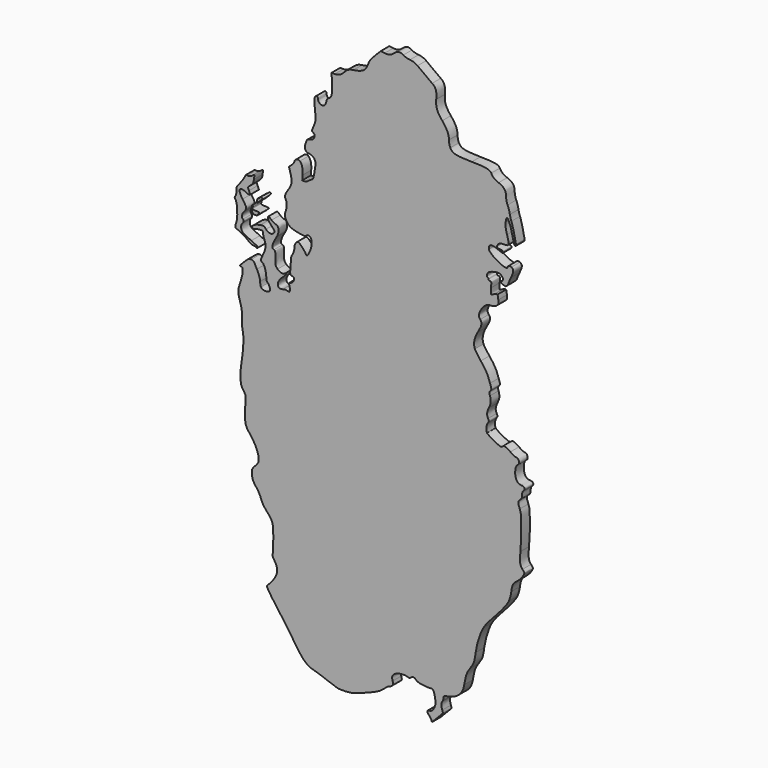
from build123d import *

# Parameters (mm, degrees)
F1_DEPTH = 3


with BuildPart() as f1:
    # F0 (on Front) → F1 (new body)
    with BuildSketch(Plane.XZ):
        with BuildLine():
            add(Edge.make_bspline(
                [(4.178923, 80.062374), (3.055613, 79.086607), (2.616394, 78.931887), (1.400835, 79.083761)],
                knots=[0, 0, 0, 0, 1, 1, 1, 1], degree=3))
            Line((1.400835, 79.083761), (0.294109, 79.222037))
            Line((0.294109, 79.222037), (-1.233349, 77.668768))
            add(Edge.make_bspline(
                [(-1.233349, 77.668768), (-2.349838, 76.533416), (-2.87879, 75.802274), (-3.199314, 74.951333)],
                knots=[0, 0, 0, 0, 1, 1, 1, 1], degree=3))
            add(Edge.make_bspline(
                [(-3.199314, 74.951333), (-3.440493, 74.311041), (-3.83578, 73.57525), (-4.077734, 73.316243)],
                knots=[0, 0, 0, 0, 1, 1, 1, 1], degree=3))
            add(Edge.make_bspline(
                [(-4.077734, 73.316243), (-4.604255, 72.752603), (-5.863523, 72.275147), (-7.311357, 72.090202)],
                knots=[0, 0, 0, 0, 1, 1, 1, 1], degree=3))
            add(Edge.make_bspline(
                [(-7.311357, 72.090202), (-8.496088, 71.938865), (-9.158313, 71.580238), (-9.91618, 70.679565)],
                knots=[0, 0, 0, 0, 1, 1, 1, 1], degree=3))
            add(Edge.make_bspline(
                [(-9.91618, 70.679565), (-10.616252, 69.847577), (-11.458479, 69.447999), (-12.51206, 69.447999)],
                knots=[0, 0, 0, 0, 1, 1, 1, 1], degree=3))
            Line((-12.51206, 69.447999), (-13.394615, 69.447999))
            Line((-13.394615, 69.447999), (-13.266171, 67.066749))
            add(Edge.make_bspline(
                [(-13.266171, 67.066749), (-13.122118, 64.396205), (-13.350406, 63.339517), (-14.146442, 62.992166)],
                knots=[0, 0, 0, 0, 1, 1, 1, 1], degree=3))
            add(Edge.make_bspline(
                [(-14.146442, 62.992166), (-14.413236, 62.875749), (-14.681765, 62.542374), (-14.743172, 62.251332)],
                knots=[0, 0, 0, 0, 1, 1, 1, 1], degree=3))
            add(Edge.make_bspline(
                [(-14.743172, 62.251332), (-14.950095, 61.270622), (-15.220738, 60.807118), (-15.669654, 60.664638)],
                knots=[0, 0, 0, 0, 1, 1, 1, 1], degree=3))
            add(Edge.make_bspline(
                [(-15.669654, 60.664638), (-16.295489, 60.466005), (-17.153858, 61.07321), (-17.153858, 61.714553)],
                knots=[0, 0, 0, 0, 1, 1, 1, 1], degree=3))
            add(Edge.make_bspline(
                [(-17.153858, 61.714553), (-17.153858, 62.403681), (-17.571557, 62.620293), (-17.94518, 62.12492)],
                knots=[0, 0, 0, 0, 1, 1, 1, 1], degree=3))
            add(Edge.make_bspline(
                [(-17.94518, 62.12492), (-18.250241, 61.72045), (-18.236279, 60.857071), (-17.871197, 57.549409)],
                knots=[0, 0, 0, 0, 1, 1, 1, 1], degree=3))
            add(Edge.make_bspline(
                [(-17.871197, 57.549409), (-17.758855, 56.531587), (-17.828431, 56.113361), (-18.310384, 54.909464)],
                knots=[0, 0, 0, 0, 1, 1, 1, 1], degree=3))
            Line((-18.310384, 54.909464), (-18.883061, 53.478943))
            Line((-18.883061, 53.478943), (-18.425651, 53.108555))
            add(Edge.make_bspline(
                [(-18.425651, 53.108555), (-18.088208, 52.83531), (-18.007027, 52.611708), (-18.116122, 52.255999)],
                knots=[0, 0, 0, 0, 1, 1, 1, 1], degree=3))
            add(Edge.make_bspline(
                [(-18.116122, 52.255999), (-18.34787, 51.500383), (-18.60144, 51.287725), (-19.441461, 51.1445)],
                knots=[0, 0, 0, 0, 1, 1, 1, 1], degree=3))
            add(Edge.make_bspline(
                [(-19.441461, 51.1445), (-20.157901, 51.022345), (-20.253289, 50.920703), (-20.586237, 49.924657)],
                knots=[0, 0, 0, 0, 1, 1, 1, 1], degree=3))
            add(Edge.make_bspline(
                [(-20.586237, 49.924657), (-21.06636, 48.488322), (-20.789639, 47.817042), (-19.640408, 47.630238)],
                knots=[0, 0, 0, 0, 1, 1, 1, 1], degree=3))
            add(Edge.make_bspline(
                [(-19.640408, 47.630238), (-18.705737, 47.478312), (-18.091732, 46.98021), (-17.900652, 46.218887)],
                knots=[0, 0, 0, 0, 1, 1, 1, 1], degree=3))
            add(Edge.make_bspline(
                [(-17.900652, 46.218887), (-17.82478, 45.916596), (-17.924118, 44.772799), (-18.121399, 43.677117)],
                knots=[0, 0, 0, 0, 1, 1, 1, 1], degree=3))
            add(Edge.make_bspline(
                [(-18.121399, 43.677117), (-18.441704, 41.898186), (-18.539075, 41.658505), (-19.031157, 41.437732)],
                knots=[0, 0, 0, 0, 1, 1, 1, 1], degree=3))
            add(Edge.make_bspline(
                [(-19.031157, 41.437732), (-19.334241, 41.301754), (-19.750213, 41.023812), (-19.955539, 40.820083)],
                knots=[0, 0, 0, 0, 1, 1, 1, 1], degree=3))
            add(Edge.make_bspline(
                [(-19.955539, 40.820083), (-20.160865, 40.616351), (-20.60364, 40.449664), (-20.939484, 40.449664)],
                knots=[0, 0, 0, 0, 1, 1, 1, 1], degree=3))
            Line((-20.939484, 40.449664), (-21.55011, 40.449664))
            Line((-21.55011, 40.449664), (-21.442129, 41.794877))
            add(Edge.make_bspline(
                [(-21.442129, 41.794877), (-21.323696, 43.270315), (-21.604938, 44.431333), (-22.21438, 44.98287)],
                knots=[0, 0, 0, 0, 1, 1, 1, 1], degree=3))
            add(Edge.make_bspline(
                [(-22.21438, 44.98287), (-22.537458, 45.275254), (-22.695339, 45.291541), (-23.158912, 45.080324)],
                knots=[0, 0, 0, 0, 1, 1, 1, 1], degree=3))
            add(Edge.make_bspline(
                [(-23.158912, 45.080324), (-23.483606, 44.932383), (-23.715525, 44.654329), (-23.715525, 44.412987)],
                knots=[0, 0, 0, 0, 1, 1, 1, 1], degree=3))
            add(Edge.make_bspline(
                [(-23.715525, 44.412987), (-23.715525, 44.185437), (-24.056665, 43.686788), (-24.473614, 43.304878)],
                knots=[0, 0, 0, 0, 1, 1, 1, 1], degree=3))
            Line((-24.473614, 43.304878), (-25.231703, 42.610495))
            Line((-25.231703, 42.610495), (-24.798229, 41.053829))
            add(Edge.make_bspline(
                [(-24.798229, 41.053829), (-24.284279, 39.208165), (-24.396, 38.429303), (-25.379806, 36.999391)],
                knots=[0, 0, 0, 0, 1, 1, 1, 1], degree=3))
            add(Edge.make_bspline(
                [(-25.379806, 36.999391), (-26.375813, 35.551745), (-26.523712, 35.034606), (-26.148975, 34.309947)],
                knots=[0, 0, 0, 0, 1, 1, 1, 1], degree=3))
            add(Edge.make_bspline(
                [(-26.148975, 34.309947), (-25.74113, 33.521261), (-25.747938, 32.637629), (-26.171846, 31.34161)],
                knots=[0, 0, 0, 0, 1, 1, 1, 1], degree=3))
            add(Edge.make_bspline(
                [(-26.171846, 31.34161), (-26.498477, 30.342993), (-26.493844, 30.266708), (-26.050994, 29.351906)],
                knots=[0, 0, 0, 0, 1, 1, 1, 1], degree=3))
            add(Edge.make_bspline(
                [(-26.050994, 29.351906), (-25.452367, 28.115307), (-24.635528, 27.635935), (-22.498004, 27.266794)],
                knots=[0, 0, 0, 0, 1, 1, 1, 1], degree=3))
            add(Edge.make_bspline(
                [(-22.498004, 27.266794), (-21.031815, 27.01359), (-20.714256, 27.011167), (-20.514665, 27.25166)],
                knots=[0, 0, 0, 0, 1, 1, 1, 1], degree=3))
            add(Edge.make_bspline(
                [(-20.514665, 27.25166), (-20.205884, 27.623717), (-19.600146, 27.617666), (-19.2862, 27.239383)],
                knots=[0, 0, 0, 0, 1, 1, 1, 1], degree=3))
            add(Edge.make_bspline(
                [(-19.2862, 27.239383), (-18.74311, 26.585), (-18.770451, 25.446466), (-19.365687, 23.929303)],
                knots=[0, 0, 0, 0, 1, 1, 1, 1], degree=3))
            add(Edge.make_bspline(
                [(-19.365687, 23.929303), (-19.700417, 23.076138), (-20.068468, 22.457997), (-20.241731, 22.457997)],
                knots=[0, 0, 0, 0, 1, 1, 1, 1], degree=3))
            add(Edge.make_bspline(
                [(-20.241731, 22.457997), (-20.406068, 22.457997), (-20.540526, 22.544693), (-20.540526, 22.650656)],
                knots=[0, 0, 0, 0, 1, 1, 1, 1], degree=3))
            add(Edge.make_bspline(
                [(-20.540526, 22.650656), (-20.540526, 23.078792), (-22.265341, 24.997997), (-22.650112, 24.997997)],
                knots=[0, 0, 0, 0, 1, 1, 1, 1], degree=3))
            add(Edge.make_bspline(
                [(-22.650112, 24.997997), (-23.23204, 24.997997), (-23.715526, 24.192613), (-23.715526, 23.223246)],
                knots=[0, 0, 0, 0, 1, 1, 1, 1], degree=3))
            add(Edge.make_bspline(
                [(-23.715526, 23.223246), (-23.715526, 22.718778), (-23.921681, 22.037582), (-24.237381, 21.49888)],
                knots=[0, 0, 0, 0, 1, 1, 1, 1], degree=3))
            add(Edge.make_bspline(
                [(-24.237381, 21.49888), (-24.655244, 20.785849), (-24.754643, 20.338817), (-24.736184, 19.255591)],
                knots=[0, 0, 0, 0, 1, 1, 1, 1], degree=3))
            add(Edge.make_bspline(
                [(-24.736184, 19.255591), (-24.723505, 18.511546), (-24.780839, 17.689457), (-24.863592, 17.428723)],
                knots=[0, 0, 0, 0, 1, 1, 1, 1], degree=3))
            add(Edge.make_bspline(
                [(-24.863592, 17.428723), (-25.077891, 16.75353), (-24.8169, 16.107997), (-24.329619, 16.107997)],
                knots=[0, 0, 0, 0, 1, 1, 1, 1], degree=3))
            add(Edge.make_bspline(
                [(-24.329619, 16.107997), (-23.357627, 16.107997), (-23.826471, 14.554258), (-24.878109, 14.290315)],
                knots=[0, 0, 0, 0, 1, 1, 1, 1], degree=3))
            add(Edge.make_bspline(
                [(-24.878109, 14.290315), (-25.30688, 14.182701), (-25.36322, 14.08989), (-25.192932, 13.771702)],
                knots=[0, 0, 0, 0, 1, 1, 1, 1], degree=3))
            add(Edge.make_bspline(
                [(-25.192932, 13.771702), (-24.96385, 13.343659), (-24.912822, 12.229592), (-25.113123, 12.029289)],
                knots=[0, 0, 0, 0, 1, 1, 1, 1], degree=3))
            add(Edge.make_bspline(
                [(-25.113123, 12.029289), (-25.183302, 11.959111), (-25.459507, 11.984876), (-25.726914, 12.086542)],
                knots=[0, 0, 0, 0, 1, 1, 1, 1], degree=3))
            add(Edge.make_bspline(
                [(-25.726914, 12.086542), (-26.026355, 12.20039), (-26.508708, 12.180668), (-26.982681, 12.035202)],
                knots=[0, 0, 0, 0, 1, 1, 1, 1], degree=3))
            add(Edge.make_bspline(
                [(-26.982681, 12.035202), (-28.784569, 11.482189), (-28.789007, 13.47965), (-26.989235, 14.984076)],
                knots=[0, 0, 0, 0, 1, 1, 1, 1], degree=3))
            add(Edge.make_bspline(
                [(-26.989235, 14.984076), (-26.469278, 15.418705), (-26.04386, 15.916066), (-26.04386, 16.08932)],
                knots=[0, 0, 0, 0, 1, 1, 1, 1], degree=3))
            add(Edge.make_bspline(
                [(-26.04386, 16.08932), (-26.04386, 16.33433), (-26.100304, 16.347887), (-26.29786, 16.15033)],
                knots=[0, 0, 0, 0, 1, 1, 1, 1], degree=3))
            add(Edge.make_bspline(
                [(-26.29786, 16.15033), (-26.759103, 15.689088), (-27.732291, 15.858863), (-28.388475, 16.515051)],
                knots=[0, 0, 0, 0, 1, 1, 1, 1], degree=3))
            add(Edge.make_bspline(
                [(-28.388475, 16.515051), (-28.977176, 17.103748), (-29.007193, 17.222803), (-29.007193, 18.969032)],
                knots=[0, 0, 0, 0, 1, 1, 1, 1], degree=3))
            add(Edge.make_bspline(
                [(-29.007193, 18.969032), (-29.007193, 20.626284), (-29.048254, 20.815035), (-29.430526, 20.915)],
                knots=[0, 0, 0, 0, 1, 1, 1, 1], degree=3))
            add(Edge.make_bspline(
                [(-29.430526, 20.915), (-30.186214, 21.112617), (-29.938997, 22.226505), (-28.688764, 24.257164)],
                knots=[0, 0, 0, 0, 1, 1, 1, 1], degree=3))
            add(Edge.make_bspline(
                [(-28.688764, 24.257164), (-27.872584, 25.582824), (-27.993502, 27.32633), (-28.901621, 27.32633)],
                knots=[0, 0, 0, 0, 1, 1, 1, 1], degree=3))
            add(Edge.make_bspline(
                [(-28.901621, 27.32633), (-29.167895, 27.32633), (-29.691653, 27.61208), (-30.065526, 27.96133)],
                knots=[0, 0, 0, 0, 1, 1, 1, 1], degree=3))
            add(Edge.make_bspline(
                [(-30.065526, 27.96133), (-30.871064, 28.713816), (-31.123859, 28.75698), (-31.123859, 28.14203)],
                knots=[0, 0, 0, 0, 1, 1, 1, 1], degree=3))
            add(Edge.make_bspline(
                [(-31.123859, 28.14203), (-31.123859, 27.892168), (-30.695234, 27.229498), (-30.171359, 26.669433)],
                knots=[0, 0, 0, 0, 1, 1, 1, 1], degree=3))
            add(Edge.make_bspline(
                [(-30.171359, 26.669433), (-29.120316, 25.545782), (-29.06636, 25.392403), (-29.551479, 24.907285)],
                knots=[0, 0, 0, 0, 1, 1, 1, 1], degree=3))
            add(Edge.make_bspline(
                [(-29.551479, 24.907285), (-30.098087, 24.360677), (-30.962073, 24.497723), (-31.60765, 25.233434)],
                knots=[0, 0, 0, 0, 1, 1, 1, 1], degree=3))
            add(Edge.make_bspline(
                [(-31.60765, 25.233434), (-32.150161, 25.851691), (-32.247262, 25.882975), (-33.18658, 25.742114)],
                knots=[0, 0, 0, 0, 1, 1, 1, 1], degree=3))
            add(Edge.make_bspline(
                [(-33.18658, 25.742114), (-34.366851, 25.565121), (-35.255376, 25.145298), (-35.433808, 24.680314)],
                knots=[0, 0, 0, 0, 1, 1, 1, 1], degree=3))
            add(Edge.make_bspline(
                [(-35.433808, 24.680314), (-35.604955, 24.234312), (-35.139596, 24.083586), (-34.427415, 24.354358)],
                knots=[0, 0, 0, 0, 1, 1, 1, 1], degree=3))
            add(Edge.make_bspline(
                [(-34.427415, 24.354358), (-34.108718, 24.475527), (-33.535288, 24.574664), (-33.153125, 24.574664)],
                knots=[0, 0, 0, 0, 1, 1, 1, 1], degree=3))
            add(Edge.make_bspline(
                [(-33.153125, 24.574664), (-32.540723, 24.574664), (-32.456081, 24.505602), (-32.43973, 23.99258)],
                knots=[0, 0, 0, 0, 1, 1, 1, 1], degree=3))
            add(Edge.make_bspline(
                [(-32.43973, 23.99258), (-32.429525, 23.672435), (-32.272156, 23.056368), (-32.090019, 22.623547)],
                knots=[0, 0, 0, 0, 1, 1, 1, 1], degree=3))
            add(Edge.make_bspline(
                [(-32.090019, 22.623547), (-31.582991, 21.418669), (-31.674536, 20.284635), (-32.393859, 18.859664)],
                knots=[0, 0, 0, 0, 1, 1, 1, 1], degree=3))
            add(Edge.make_bspline(
                [(-32.393859, 18.859664), (-33.135433, 17.390615), (-33.173452, 17.046942), (-32.626757, 16.754361)],
                knots=[0, 0, 0, 0, 1, 1, 1, 1], degree=3))
            add(Edge.make_bspline(
                [(-32.626757, 16.754361), (-32.103107, 16.474112), (-31.547193, 14.820079), (-31.547193, 13.542295)],
                knots=[0, 0, 0, 0, 1, 1, 1, 1], degree=3))
            add(Edge.make_bspline(
                [(-31.547193, 13.542295), (-31.547193, 12.766638), (-31.447339, 12.463729), (-31.114885, 12.23087)],
                knots=[0, 0, 0, 0, 1, 1, 1, 1], degree=3))
            add(Edge.make_bspline(
                [(-31.114885, 12.23087), (-30.877116, 12.064328), (-30.628024, 11.591898), (-30.561348, 11.181021)],
                knots=[0, 0, 0, 0, 1, 1, 1, 1], degree=3))
            add(Edge.make_bspline(
                [(-30.561348, 11.181021), (-30.46011, 10.557163), (-30.517621, 10.3925), (-30.910111, 10.182444)],
                knots=[0, 0, 0, 0, 1, 1, 1, 1], degree=3))
            add(Edge.make_bspline(
                [(-30.910111, 10.182444), (-31.531699, 9.849781), (-32.753876, 10.090853), (-33.026287, 10.599856)],
                knots=[0, 0, 0, 0, 1, 1, 1, 1], degree=3))
            add(Edge.make_bspline(
                [(-33.026287, 10.599856), (-33.144118, 10.820029), (-33.247434, 11.411241), (-33.255876, 11.913666)],
                knots=[0, 0, 0, 0, 1, 1, 1, 1], degree=3))
            add(Edge.make_bspline(
                [(-33.255876, 11.913666), (-33.266314, 12.534791), (-33.554232, 13.403), (-34.15546, 14.62633)],
                knots=[0, 0, 0, 0, 1, 1, 1, 1], degree=3))
            add(Edge.make_bspline(
                [(-34.15546, 14.62633), (-34.968267, 16.280164), (-35.09481, 16.43082), (-35.72203, 16.491407)],
                knots=[0, 0, 0, 0, 1, 1, 1, 1], degree=3))
            add(Edge.make_bspline(
                [(-35.72203, 16.491407), (-36.314228, 16.548613), (-36.579867, 16.382383), (-37.732863, 15.233078)],
                knots=[0, 0, 0, 0, 1, 1, 1, 1], degree=3))
            add(Edge.make_bspline(
                [(-37.732863, 15.233078), (-38.929643, 14.040127), (-39.01414, 13.90097), (-38.585109, 13.829527)],
                knots=[0, 0, 0, 0, 1, 1, 1, 1], degree=3))
            add(Edge.make_bspline(
                [(-38.585109, 13.829527), (-38.169603, 13.760336), (-38.109392, 13.623864), (-38.113035, 12.759526)],
                knots=[0, 0, 0, 0, 1, 1, 1, 1], degree=3))
            add(Edge.make_bspline(
                [(-38.113035, 12.759526), (-38.115337, 12.211687), (-38.399198, 10.969125), (-38.748035, 9.979834)],
                knots=[0, 0, 0, 0, 1, 1, 1, 1], degree=3))
            add(Edge.make_bspline(
                [(-38.748035, 9.979834), (-39.514433, 7.806356), (-39.5222, 7.365838), (-38.832185, 5.207164)],
                knots=[0, 0, 0, 0, 1, 1, 1, 1], degree=3))
            add(Edge.make_bspline(
                [(-38.832185, 5.207164), (-38.384739, 3.807351), (-38.296733, 3.146933), (-38.324472, 1.397164)],
                knots=[0, 0, 0, 0, 1, 1, 1, 1], degree=3))
            add(Edge.make_bspline(
                [(-38.324472, 1.397164), (-38.342928, 0.232997), (-38.256613, -1.100503), (-38.13266, -1.56617)],
                knots=[0, 0, 0, 0, 1, 1, 1, 1], degree=3))
            add(Edge.make_bspline(
                [(-38.13266, -1.56617), (-37.772318, -2.919908), (-37.861474, -6.065309), (-38.340057, -8.883119)],
                knots=[0, 0, 0, 0, 1, 1, 1, 1], degree=3))
            add(Edge.make_bspline(
                [(-38.340057, -8.883119), (-38.628928, -10.583937), (-38.757729, -12.122269), (-38.710473, -13.307161)],
                knots=[0, 0, 0, 0, 1, 1, 1, 1], degree=3))
            add(Edge.make_bspline(
                [(-38.710473, -13.307161), (-38.646039, -14.922768), (-38.563379, -15.240167), (-37.963183, -16.176604)],
                knots=[0, 0, 0, 0, 1, 1, 1, 1], degree=3))
            Line((-37.963183, -16.176604), (-37.28834, -17.229503))
            Line((-37.28834, -17.229503), (-37.411595, -20.414756))
            add(Edge.make_bspline(
                [(-37.411595, -20.414756), (-37.552666, -24.060396), (-37.431296, -24.647279), (-36.219152, -26.180757)],
                knots=[0, 0, 0, 0, 1, 1, 1, 1], degree=3))
            add(Edge.make_bspline(
                [(-36.219152, -26.180757), (-34.4985, -28.357545), (-33.663859, -30.192102), (-33.663859, -31.797342)],
                knots=[0, 0, 0, 0, 1, 1, 1, 1], degree=3))
            add(Edge.make_bspline(
                [(-33.663859, -31.797342), (-33.663859, -32.50084), (-33.818573, -32.802669), (-34.616359, -33.655567)],
                knots=[0, 0, 0, 0, 1, 1, 1, 1], degree=3))
            add(Edge.make_bspline(
                [(-34.616359, -33.655567), (-35.458062, -34.555414), (-35.568859, -34.786512), (-35.568859, -35.642236)],
                knots=[0, 0, 0, 0, 1, 1, 1, 1], degree=3))
            add(Edge.make_bspline(
                [(-35.568859, -35.642236), (-35.568859, -36.850416), (-35.15705, -37.856462), (-34.209241, -38.963764)],
                knots=[0, 0, 0, 0, 1, 1, 1, 1], degree=3))
            add(Edge.make_bspline(
                [(-34.209241, -38.963764), (-33.804792, -39.436268), (-33.279644, -40.398031), (-33.042245, -41.101008)],
                knots=[0, 0, 0, 0, 1, 1, 1, 1], degree=3))
            add(Edge.make_bspline(
                [(-33.042245, -41.101008), (-32.760753, -41.934551), (-32.244529, -42.800045), (-31.558197, -43.589139)],
                knots=[0, 0, 0, 0, 1, 1, 1, 1], degree=3))
            add(Edge.make_bspline(
                [(-31.558197, -43.589139), (-29.639529, -45.795076), (-29.610702, -45.882687), (-29.59545, -49.554376)],
                knots=[0, 0, 0, 0, 1, 1, 1, 1], degree=3))
            add(Edge.make_bspline(
                [(-29.59545, -49.554376), (-29.588058, -51.333697), (-29.653825, -53.097949), (-29.741595, -53.474935)],
                knots=[0, 0, 0, 0, 1, 1, 1, 1], degree=3))
            add(Edge.make_bspline(
                [(-29.741595, -53.474935), (-29.87443, -54.045483), (-29.784866, -54.341626), (-29.207241, -55.241778)],
                knots=[0, 0, 0, 0, 1, 1, 1, 1], degree=3))
            add(Edge.make_bspline(
                [(-29.207241, -55.241778), (-28.020134, -57.091723), (-28.344195, -58.626291), (-30.406303, -60.919852)],
                knots=[0, 0, 0, 0, 1, 1, 1, 1], degree=3))
            Line((-30.406303, -60.919852), (-31.416187, -62.043085))
            Line((-31.416187, -62.043085), (-30.899606, -63.023457))
            add(Edge.make_bspline(
                [(-30.899606, -63.023457), (-30.615487, -63.562662), (-29.538474, -65.086005), (-28.506245, -66.408665)],
                knots=[0, 0, 0, 0, 1, 1, 1, 1], degree=3))
            add(Edge.make_bspline(
                [(-28.506245, -66.408665), (-27.474015, -67.731326), (-25.865227, -70.018228), (-24.93116, -71.490671)],
                knots=[0, 0, 0, 0, 1, 1, 1, 1], degree=3))
            add(Edge.make_bspline(
                [(-24.93116, -71.490671), (-21.661536, -76.644834), (-20.527751, -77.823431), (-18.303718, -78.380059)],
                knots=[0, 0, 0, 0, 1, 1, 1, 1], degree=3))
            add(Edge.make_bspline(
                [(-18.303718, -78.380059), (-17.496671, -78.582047), (-15.88386, -79.130793), (-14.719693, -79.599497)],
                knots=[0, 0, 0, 0, 1, 1, 1, 1], degree=3))
            add(Edge.make_bspline(
                [(-14.719693, -79.599497), (-13.55554, -80.068193), (-12.22204, -80.533068), (-11.756373, -80.632544)],
                knots=[0, 0, 0, 0, 1, 1, 1, 1], degree=3))
            add(Edge.make_bspline(
                [(-11.756373, -80.632544), (-10.672449, -80.864094), (-8.143835, -80.694697), (-6.843791, -80.303442)],
                knots=[0, 0, 0, 0, 1, 1, 1, 1], degree=3))
            add(Edge.make_bspline(
                [(-6.843791, -80.303442), (-6.288793, -80.136413), (-4.559209, -79.497193), (-3.000271, -78.882957)],
                knots=[0, 0, 0, 0, 1, 1, 1, 1], degree=3))
            add(Edge.make_bspline(
                [(-3.000271, -78.882957), (-0.661402, -77.961424), (0.052825, -77.571878), (1.084814, -76.654917)],
                knots=[0, 0, 0, 0, 1, 1, 1, 1], degree=3))
            add(Edge.make_bspline(
                [(1.084814, -76.654917), (1.772669, -76.04373), (2.464184, -75.543667), (2.621511, -75.543667)],
                knots=[0, 0, 0, 0, 1, 1, 1, 1], degree=3))
            add(Edge.make_bspline(
                [(2.621511, -75.543667), (2.778838, -75.543667), (3.118367, -75.372966), (3.376021, -75.164331)],
                knots=[0, 0, 0, 0, 1, 1, 1, 1], degree=3))
            add(Edge.make_bspline(
                [(3.376021, -75.164331), (3.809077, -74.813663), (3.825021, -74.72004), (3.586983, -73.925544)],
                knots=[0, 0, 0, 0, 1, 1, 1, 1], degree=3))
            add(Edge.make_bspline(
                [(3.586983, -73.925544), (3.392248, -73.275566), (3.38849, -72.955844), (3.571585, -72.613737)],
                knots=[0, 0, 0, 0, 1, 1, 1, 1], degree=3))
            add(Edge.make_bspline(
                [(3.571585, -72.613737), (4.06675, -71.688511), (6.117668, -71.111846), (7.528069, -71.501276)],
                knots=[0, 0, 0, 0, 1, 1, 1, 1], degree=3))
            add(Edge.make_bspline(
                [(7.528069, -71.501276), (8.169223, -71.678308), (8.39991, -71.660108), (8.675434, -71.410762)],
                knots=[0, 0, 0, 0, 1, 1, 1, 1], degree=3))
            add(Edge.make_bspline(
                [(8.675434, -71.410762), (9.154957, -70.9768), (9.639023, -71.021083), (10.125661, -71.543424)],
                knots=[0, 0, 0, 0, 1, 1, 1, 1], degree=3))
            add(Edge.make_bspline(
                [(10.125661, -71.543424), (10.438578, -71.879302), (10.945827, -72.033908), (12.197655, -72.17495)],
                knots=[0, 0, 0, 0, 1, 1, 1, 1], degree=3))
            add(Edge.make_bspline(
                [(12.197655, -72.17495), (13.109356, -72.277672), (13.998171, -72.317827), (14.172796, -72.264191)],
                knots=[0, 0, 0, 0, 1, 1, 1, 1], degree=3))
            add(Edge.make_bspline(
                [(14.172796, -72.264191), (14.749675, -72.086992), (15.039235, -72.497196), (15.334947, -73.910553)],
                knots=[0, 0, 0, 0, 1, 1, 1, 1], degree=3))
            add(Edge.make_bspline(
                [(15.334947, -73.910553), (15.539557, -74.88849), (15.566849, -75.525731), (15.425966, -76.035961)],
                knots=[0, 0, 0, 0, 1, 1, 1, 1], degree=3))
            add(Edge.make_bspline(
                [(15.425966, -76.035961), (15.142531, -77.062471), (14.448741, -77.872), (13.852425, -77.872)],
                knots=[0, 0, 0, 0, 1, 1, 1, 1], degree=3))
            add(Edge.make_bspline(
                [(13.852425, -77.872), (13.064224, -77.872), (13.011902, -78.274275), (13.705513, -79.001541)],
                knots=[0, 0, 0, 0, 1, 1, 1, 1], degree=3))
            add(Edge.make_bspline(
                [(13.705513, -79.001541), (14.056763, -79.369833), (14.381454, -79.861667), (14.427047, -80.0945)],
                knots=[0, 0, 0, 0, 1, 1, 1, 1], degree=3))
            add(Edge.make_bspline(
                [(14.427047, -80.0945), (14.503298, -80.483888), (14.551589, -80.468542), (15.029287, -79.903133)],
                knots=[0, 0, 0, 0, 1, 1, 1, 1], degree=3))
            add(Edge.make_bspline(
                [(15.029287, -79.903133), (15.314926, -79.565045), (16.022662, -78.833668), (16.602039, -78.277845)],
                knots=[0, 0, 0, 0, 1, 1, 1, 1], degree=3))
            add(Edge.make_bspline(
                [(16.602039, -78.277845), (17.638565, -77.283456), (17.651286, -77.255751), (17.395789, -76.549184)],
                knots=[0, 0, 0, 0, 1, 1, 1, 1], degree=3))
            add(Edge.make_bspline(
                [(17.395789, -76.549184), (17.050963, -75.595584), (17.068004, -74.867982), (17.446898, -74.367038)],
                knots=[0, 0, 0, 0, 1, 1, 1, 1], degree=3))
            add(Edge.make_bspline(
                [(17.446898, -74.367038), (17.617819, -74.14106), (17.760694, -73.705204), (17.764398, -73.398473)],
                knots=[0, 0, 0, 0, 1, 1, 1, 1], degree=3))
            add(Edge.make_bspline(
                [(17.764398, -73.398473), (17.77059, -72.885798), (17.860834, -72.829473), (18.882379, -72.700743)],
                knots=[0, 0, 0, 0, 1, 1, 1, 1], degree=3))
            add(Edge.make_bspline(
                [(18.882379, -72.700743), (19.493567, -72.623723), (20.466315, -72.303185), (21.044044, -71.988437)],
                knots=[0, 0, 0, 0, 1, 1, 1, 1], degree=3))
            add(Edge.make_bspline(
                [(21.044044, -71.988437), (22.446814, -71.224204), (23.221988, -70.078084), (23.507045, -68.346818)],
                knots=[0, 0, 0, 0, 1, 1, 1, 1], degree=3))
            add(Edge.make_bspline(
                [(23.507045, -68.346818), (23.909598, -65.90193), (24.157676, -65.202769), (25.094862, -63.871846)],
                knots=[0, 0, 0, 0, 1, 1, 1, 1], degree=3))
            add(Edge.make_bspline(
                [(25.094862, -63.871846), (26.179101, -62.332092), (26.352022, -61.847249), (26.668612, -59.459315)],
                knots=[0, 0, 0, 0, 1, 1, 1, 1], degree=3))
            add(Edge.make_bspline(
                [(26.668612, -59.459315), (26.976994, -57.133265), (27.930508, -54.177449), (28.889051, -52.576109)],
                knots=[0, 0, 0, 0, 1, 1, 1, 1], degree=3))
            add(Edge.make_bspline(
                [(28.889051, -52.576109), (29.306598, -51.878558), (30.25298, -50.688709), (30.992123, -49.932)],
                knots=[0, 0, 0, 0, 1, 1, 1, 1], degree=3))
            add(Edge.make_bspline(
                [(30.992123, -49.932), (33.256673, -47.613626), (35.362103, -45.012933), (35.894992, -43.875815)],
                knots=[0, 0, 0, 0, 1, 1, 1, 1], degree=3))
            add(Edge.make_bspline(
                [(35.894992, -43.875815), (36.173882, -43.280706), (36.487916, -42.110049), (36.592849, -41.274355)],
                knots=[0, 0, 0, 0, 1, 1, 1, 1], degree=3))
            add(Edge.make_bspline(
                [(36.592849, -41.274355), (36.814472, -39.509348), (37.062292, -39.06265), (38.371715, -38.067954)],
                knots=[0, 0, 0, 0, 1, 1, 1, 1], degree=3))
            add(Edge.make_bspline(
                [(38.371715, -38.067954), (39.260736, -37.39261), (40.207796, -36.105383), (40.207796, -35.572383)],
                knots=[0, 0, 0, 0, 1, 1, 1, 1], degree=3))
            add(Edge.make_bspline(
                [(40.207796, -35.572383), (40.207796, -35.448008), (39.975981, -35.114429), (39.692655, -34.831102)],
                knots=[0, 0, 0, 0, 1, 1, 1, 1], degree=3))
            add(Edge.make_bspline(
                [(39.692655, -34.831102), (38.984812, -34.12326), (38.856347, -33.177081), (39.128468, -30.675699)],
                knots=[0, 0, 0, 0, 1, 1, 1, 1], degree=3))
            add(Edge.make_bspline(
                [(39.128468, -30.675699), (39.256439, -29.499449), (39.361135, -26.925075), (39.361135, -24.954865)],
                knots=[0, 0, 0, 0, 1, 1, 1, 1], degree=3))
            add(Edge.make_bspline(
                [(39.361135, -24.954865), (39.361135, -21.871782), (39.302151, -21.223029), (38.937801, -20.298664)],
                knots=[0, 0, 0, 0, 1, 1, 1, 1], degree=3))
            add(Edge.make_bspline(
                [(38.937801, -20.298664), (38.385936, -18.898569), (38.403824, -18.511422), (39.043635, -18.008148)],
                knots=[0, 0, 0, 0, 1, 1, 1, 1], degree=3))
            add(Edge.make_bspline(
                [(39.043635, -18.008148), (39.448561, -17.689635), (39.572801, -17.39555), (39.572801, -16.755592)],
                knots=[0, 0, 0, 0, 1, 1, 1, 1], degree=3))
            add(Edge.make_bspline(
                [(39.572801, -16.755592), (39.572801, -16.204079), (39.709146, -15.795887), (39.973174, -15.556945)],
                knots=[0, 0, 0, 0, 1, 1, 1, 1], degree=3))
            add(Edge.make_bspline(
                [(39.973174, -15.556945), (40.587931, -15.000597), (40.31628, -14.371998), (39.461097, -14.371998)],
                knots=[0, 0, 0, 0, 1, 1, 1, 1], degree=3))
            add(Edge.make_bspline(
                [(39.461097, -14.371998), (38.375451, -14.371998), (37.667801, -13.399559), (37.667801, -11.907676)],
                knots=[0, 0, 0, 0, 1, 1, 1, 1], degree=3))
            add(Edge.make_bspline(
                [(37.667801, -11.907676), (37.667801, -10.719536), (37.930128, -9.952755), (38.439533, -9.651897)],
                knots=[0, 0, 0, 0, 1, 1, 1, 1], degree=3))
            add(Edge.make_bspline(
                [(38.439533, -9.651897), (39.043658, -9.295096), (38.698086, -8.021998), (37.997112, -8.021998)],
                knots=[0, 0, 0, 0, 1, 1, 1, 1], degree=3))
            add(Edge.make_bspline(
                [(37.997112, -8.021998), (37.737477, -8.021998), (36.992989, -7.640998), (36.342694, -7.175331)],
                knots=[0, 0, 0, 0, 1, 1, 1, 1], degree=3))
            add(Edge.make_bspline(
                [(36.342694, -7.175331), (35.179366, -6.34229), (34.432865, -6.123581), (34.175301, -6.540331)],
                knots=[0, 0, 0, 0, 1, 1, 1, 1], degree=3))
            add(Edge.make_bspline(
                [(34.175301, -6.540331), (34.10335, -6.656748), (33.866919, -6.751998), (33.649897, -6.751998)],
                knots=[0, 0, 0, 0, 1, 1, 1, 1], degree=3))
            add(Edge.make_bspline(
                [(33.649897, -6.751998), (33.073888, -6.751998), (30.076879, -5.085165), (29.832772, -4.629045)],
                knots=[0, 0, 0, 0, 1, 1, 1, 1], degree=3))
            add(Edge.make_bspline(
                [(29.832772, -4.629045), (29.499582, -4.006475), (29.593628, -2.887179), (30.03544, -2.216968)],
                knots=[0, 0, 0, 0, 1, 1, 1, 1], degree=3))
            add(Edge.make_bspline(
                [(30.03544, -2.216968), (30.403182, -1.659118), (30.41353, -1.539576), (30.139879, -1.010396)],
                knots=[0, 0, 0, 0, 1, 1, 1, 1], degree=3))
            add(Edge.make_bspline(
                [(30.139879, -1.010396), (29.713614, -0.186092), (29.761551, 0.381402), (30.36737, 1.682771)],
                knots=[0, 0, 0, 0, 1, 1, 1, 1], degree=3))
            add(Edge.make_bspline(
                [(30.36737, 1.682771), (30.955317, 2.945749), (31.007916, 3.509401), (30.649472, 4.705781)],
                knots=[0, 0, 0, 0, 1, 1, 1, 1], degree=3))
            add(Edge.make_bspline(
                [(30.649472, 4.705781), (30.438535, 5.409824), (30.456228, 5.580697), (30.776742, 5.93486)],
                knots=[0, 0, 0, 0, 1, 1, 1, 1], degree=3))
            add(Edge.make_bspline(
                [(30.776742, 5.93486), (31.132754, 6.328251), (31.128315, 6.409147), (30.675075, 7.787523)],
                knots=[0, 0, 0, 0, 1, 1, 1, 1], degree=3))
            add(Edge.make_bspline(
                [(30.675075, 7.787523), (30.012003, 9.804032), (29.642338, 10.468528), (28.094107, 12.426966)],
                knots=[0, 0, 0, 0, 1, 1, 1, 1], degree=3))
            add(Edge.make_bspline(
                [(28.094107, 12.426966), (27.347792, 13.371023), (26.613057, 14.443064), (26.461364, 14.809284)],
                knots=[0, 0, 0, 0, 1, 1, 1, 1], degree=3))
            add(Edge.make_bspline(
                [(26.461364, 14.809284), (25.990498, 15.946053), (26.275309, 17.503621), (27.256466, 19.157542)],
                knots=[0, 0, 0, 0, 1, 1, 1, 1], degree=3))
            add(Edge.make_bspline(
                [(27.256466, 19.157542), (28.40503, 21.093665), (28.527413, 21.696762), (27.934482, 22.498745)],
                knots=[0, 0, 0, 0, 1, 1, 1, 1], degree=3))
            add(Edge.make_bspline(
                [(27.934482, 22.498745), (27.394864, 23.228614), (27.464857, 23.770029), (28.27981, 25.170019)],
                knots=[0, 0, 0, 0, 1, 1, 1, 1], degree=3))
            add(Edge.make_bspline(
                [(28.27981, 25.170019), (28.940126, 26.304356), (29.88586, 26.901177), (31.024672, 26.902211)],
                knots=[0, 0, 0, 0, 1, 1, 1, 1], degree=3))
            add(Edge.make_bspline(
                [(31.024672, 26.902211), (31.595735, 26.90274), (32.095843, 27.060429), (32.476832, 27.360115)],
                knots=[0, 0, 0, 0, 1, 1, 1, 1], degree=3))
            add(Edge.make_bspline(
                [(32.476832, 27.360115), (33.008481, 27.778307), (33.049975, 27.913438), (32.964235, 28.947369)],
                knots=[0, 0, 0, 0, 1, 1, 1, 1], degree=3))
            add(Edge.make_bspline(
                [(32.964235, 28.947369), (32.912686, 29.568949), (32.821529, 30.126498), (32.761656, 30.18637)],
                knots=[0, 0, 0, 0, 1, 1, 1, 1], degree=3))
            add(Edge.make_bspline(
                [(32.761656, 30.18637), (32.701786, 30.246243), (32.307859, 30.151101), (31.886266, 29.97495)],
                knots=[0, 0, 0, 0, 1, 1, 1, 1], degree=3))
            add(Edge.make_bspline(
                [(31.886266, 29.97495), (31.464674, 29.798795), (31.05507, 29.654669), (30.976042, 29.654669)],
                knots=[0, 0, 0, 0, 1, 1, 1, 1], degree=3))
            add(Edge.make_bspline(
                [(30.976042, 29.654669), (30.897011, 29.654669), (30.892738, 30.369044), (30.966543, 31.242169)],
                knots=[0, 0, 0, 0, 1, 1, 1, 1], degree=3))
            add(Edge.make_bspline(
                [(30.966543, 31.242169), (31.092326, 32.73018), (31.074374, 32.829669), (30.680103, 32.829669)],
                knots=[0, 0, 0, 0, 1, 1, 1, 1], degree=3))
            add(Edge.make_bspline(
                [(30.680103, 32.829669), (30.447322, 32.829669), (30.259473, 32.971462), (30.259473, 33.147169)],
                knots=[0, 0, 0, 0, 1, 1, 1, 1], degree=3))
            add(Edge.make_bspline(
                [(30.259473, 33.147169), (30.259473, 33.321794), (30.164223, 33.464669), (30.047807, 33.464669)],
                knots=[0, 0, 0, 0, 1, 1, 1, 1], degree=3))
            add(Edge.make_bspline(
                [(30.047807, 33.464669), (29.685401, 33.464669), (29.815955, 34.439124), (30.228361, 34.812348)],
                knots=[0, 0, 0, 0, 1, 1, 1, 1], degree=3))
            add(Edge.make_bspline(
                [(30.228361, 34.812348), (30.444084, 35.007571), (31.164483, 35.281385), (31.829246, 35.420824)],
                knots=[0, 0, 0, 0, 1, 1, 1, 1], degree=3))
            add(Edge.make_bspline(
                [(31.829246, 35.420824), (32.846193, 35.634128), (33.128115, 35.623939), (33.606606, 35.35658)],
                knots=[0, 0, 0, 0, 1, 1, 1, 1], degree=3))
            add(Edge.make_bspline(
                [(33.606606, 35.35658), (34.36759, 34.931379), (34.48157, 34.04589), (33.815375, 33.734663)],
                knots=[0, 0, 0, 0, 1, 1, 1, 1], degree=3))
            add(Edge.make_bspline(
                [(33.815375, 33.734663), (33.341345, 33.513209), (33.349949, 33.498112), (34.145044, 33.156165)],
                knots=[0, 0, 0, 0, 1, 1, 1, 1], degree=3))
            add(Edge.make_bspline(
                [(34.145044, 33.156165), (34.909488, 32.827404), (34.986948, 32.828137), (35.362127, 33.167648)],
                knots=[0, 0, 0, 0, 1, 1, 1, 1], degree=3))
            add(Edge.make_bspline(
                [(35.362127, 33.167648), (35.582501, 33.367085), (35.762807, 33.637249), (35.762807, 33.768008)],
                knots=[0, 0, 0, 0, 1, 1, 1, 1], degree=3))
            add(Edge.make_bspline(
                [(35.762807, 33.768008), (35.762807, 33.898771), (36.09856, 34.706359), (36.508926, 35.562651)],
                knots=[0, 0, 0, 0, 1, 1, 1, 1], degree=3))
            add(Edge.make_bspline(
                [(36.508926, 35.562651), (37.285301, 37.182673), (37.307727, 37.747622), (36.610473, 38.120783)],
                knots=[0, 0, 0, 0, 1, 1, 1, 1], degree=3))
            add(Edge.make_bspline(
                [(36.610473, 38.120783), (36.135226, 38.375135), (35.55114, 38.187884), (35.55114, 37.781179)],
                knots=[0, 0, 0, 0, 1, 1, 1, 1], degree=3))
            add(Edge.make_bspline(
                [(35.55114, 37.781179), (35.55114, 36.66146), (30.788595, 39.116), (30.363706, 40.454699)],
                knots=[0, 0, 0, 0, 1, 1, 1, 1], degree=3))
            add(Edge.make_bspline(
                [(30.363706, 40.454699), (30.29348, 40.675967), (30.339893, 41.051101), (30.466862, 41.288332)],
                knots=[0, 0, 0, 0, 1, 1, 1, 1], degree=3))
            add(Edge.make_bspline(
                [(30.466862, 41.288332), (30.772413, 41.859263), (31.546256, 41.832453), (33.01114, 41.200186)],
                knots=[0, 0, 0, 0, 1, 1, 1, 1], degree=3))
            add(Edge.make_bspline(
                [(33.01114, 41.200186), (34.249123, 40.665852), (34.40687, 40.66337), (34.208099, 41.181374)],
                knots=[0, 0, 0, 0, 1, 1, 1, 1], degree=3))
            add(Edge.make_bspline(
                [(34.208099, 41.181374), (34.127872, 41.39044), (33.813732, 41.508), (33.335281, 41.508)],
                knots=[0, 0, 0, 0, 1, 1, 1, 1], degree=3))
            add(Edge.make_bspline(
                [(33.335281, 41.508), (32.482346, 41.508), (32.372404, 41.83009), (32.972415, 42.571072)],
                knots=[0, 0, 0, 0, 1, 1, 1, 1], degree=3))
            add(Edge.make_bspline(
                [(32.972415, 42.571072), (33.290365, 42.963727), (33.562018, 43.044202), (34.53982, 43.035415)],
                knots=[0, 0, 0, 0, 1, 1, 1, 1], degree=3))
            add(Edge.make_bspline(
                [(34.53982, 43.035415), (36.047728, 43.021869), (36.122891, 43.249937), (35.406582, 45.665493)],
                knots=[0, 0, 0, 0, 1, 1, 1, 1], degree=3))
            add(Edge.make_bspline(
                [(35.406582, 45.665493), (34.98272, 47.094854), (34.901432, 47.707341), (35.014978, 48.616137)],
                knots=[0, 0, 0, 0, 1, 1, 1, 1], degree=3))
            add(Edge.make_bspline(
                [(35.014978, 48.616137), (35.109164, 49.369974), (35.256643, 49.763), (35.44533, 49.763)],
                knots=[0, 0, 0, 0, 1, 1, 1, 1], degree=3))
            add(Edge.make_bspline(
                [(35.44533, 49.763), (35.787945, 49.763), (36.462995, 48.036144), (36.810591, 46.2705)],
                knots=[0, 0, 0, 0, 1, 1, 1, 1], degree=3))
            add(Edge.make_bspline(
                [(36.810591, 46.2705), (37.153303, 44.529663), (37.452124, 43.624666), (37.684221, 43.624666)],
                knots=[0, 0, 0, 0, 1, 1, 1, 1], degree=3))
            add(Edge.make_bspline(
                [(37.684221, 43.624666), (37.79161, 43.624666), (37.879352, 43.838979), (37.879201, 44.100916)],
                knots=[0, 0, 0, 0, 1, 1, 1, 1], degree=3))
            add(Edge.make_bspline(
                [(37.879201, 44.100916), (37.878672, 44.736271), (36.880232, 48.833746), (36.596591, 49.363735)],
                knots=[0, 0, 0, 0, 1, 1, 1, 1], degree=3))
            add(Edge.make_bspline(
                [(36.596591, 49.363735), (36.4733, 49.594111), (36.28933, 50.29314), (36.187772, 50.917133)],
                knots=[0, 0, 0, 0, 1, 1, 1, 1], degree=3))
            add(Edge.make_bspline(
                [(36.187772, 50.917133), (36.086215, 51.541127), (35.806177, 52.483993), (35.565464, 53.01239)],
                knots=[0, 0, 0, 0, 1, 1, 1, 1], degree=3))
            add(Edge.make_bspline(
                [(35.565464, 53.01239), (35.3103, 53.572508), (35.127807, 54.41248), (35.127807, 55.026812)],
                knots=[0, 0, 0, 0, 1, 1, 1, 1], degree=3))
            add(Edge.make_bspline(
                [(35.127807, 55.026812), (35.127807, 56.367257), (34.523472, 57.136117), (33.054722, 57.664272)],
                knots=[0, 0, 0, 0, 1, 1, 1, 1], degree=3))
            add(Edge.make_bspline(
                [(33.054722, 57.664272), (31.974912, 58.052566), (31.435205, 58.495206), (31.015764, 59.336528)],
                knots=[0, 0, 0, 0, 1, 1, 1, 1], degree=3))
            add(Edge.make_bspline(
                [(31.015764, 59.336528), (30.643839, 60.08253), (29.407822, 60.311514), (25.602807, 60.33933)],
                knots=[0, 0, 0, 0, 1, 1, 1, 1], degree=3))
            add(Edge.make_bspline(
                [(25.602807, 60.33933), (21.357273, 60.370367), (20.208892, 60.656282), (19.623551, 61.827999)],
                knots=[0, 0, 0, 0, 1, 1, 1, 1], degree=3))
            add(Edge.make_bspline(
                [(19.623551, 61.827999), (19.420005, 62.235457), (19.251227, 63.045082), (19.248486, 63.627166)],
                knots=[0, 0, 0, 0, 1, 1, 1, 1], degree=3))
            add(Edge.make_bspline(
                [(19.248486, 63.627166), (19.242189, 64.967461), (18.711382, 66.136426), (17.385819, 67.729252)],
                knots=[0, 0, 0, 0, 1, 1, 1, 1], degree=3))
            add(Edge.make_bspline(
                [(17.385819, 67.729252), (15.950926, 69.45345), (15.560861, 70.545417), (15.716537, 72.402317)],
                knots=[0, 0, 0, 0, 1, 1, 1, 1], degree=3))
            add(Edge.make_bspline(
                [(15.716537, 72.402317), (15.885619, 74.419129), (15.614458, 75.263693), (14.5717, 75.96807)],
                knots=[0, 0, 0, 0, 1, 1, 1, 1], degree=3))
            add(Edge.make_bspline(
                [(14.5717, 75.96807), (13.808827, 76.483384), (12.938999, 77.125885), (10.517905, 78.96241)],
                knots=[0, 0, 0, 0, 1, 1, 1, 1], degree=3))
            add(Edge.make_bspline(
                [(10.517905, 78.96241), (9.9322, 79.406697), (9.370254, 79.607542), (8.401239, 79.718928)],
                knots=[0, 0, 0, 0, 1, 1, 1, 1], degree=3))
            add(Edge.make_bspline(
                [(8.401239, 79.718928), (7.671298, 79.802833), (6.830995, 80.048309), (6.520133, 80.268453)],
                knots=[0, 0, 0, 0, 1, 1, 1, 1], degree=3))
            add(Edge.make_bspline(
                [(6.520133, 80.268453), (5.728693, 80.828928), (4.986142, 80.763567), (4.178923, 80.062374)],
                knots=[0, 0, 0, 0, 1, 1, 1, 1], degree=3))
        make_face()
    extrude(amount=F1_DEPTH)


with BuildPart() as f1b:
    # F0 (on Front) → F1, piece 2 (new body)
    with BuildSketch(Plane.XZ):
        with BuildLine():
            add(Edge.make_bspline(
                [(-35.992207, 32.293322), (-35.992207, 32.34758), (-36.152206, 32.727497), (-36.347761, 33.13758)],
                knots=[0, 0, 0, 0, 1, 1, 1, 1], degree=3))
            Line((-36.347761, 33.13758), (-36.703315, 33.883184))
            Line((-36.703315, 33.883184), (-35.91537, 34.573509))
            add(Edge.make_bspline(
                [(-35.91537, 34.573509), (-35.269942, 35.138976), (-35.096497, 35.464829), (-34.956428, 36.375086)],
                knots=[0, 0, 0, 0, 1, 1, 1, 1], degree=3))
            add(Edge.make_bspline(
                [(-34.956428, 36.375086), (-34.862379, 36.986273), (-34.822686, 37.486336), (-34.868222, 37.486336)],
                knots=[0, 0, 0, 0, 1, 1, 1, 1], degree=3))
            add(Edge.make_bspline(
                [(-34.868222, 37.486336), (-34.913758, 37.486336), (-35.225591, 37.283334), (-35.561184, 37.035221)],
                knots=[0, 0, 0, 0, 1, 1, 1, 1], degree=3))
            add(Edge.make_bspline(
                [(-35.561184, 37.035221), (-35.956998, 36.742581), (-36.362963, 36.62073), (-36.71678, 36.688368)],
                knots=[0, 0, 0, 0, 1, 1, 1, 1], degree=3))
            add(Edge.make_bspline(
                [(-36.71678, 36.688368), (-37.016765, 36.745714), (-37.262207, 36.723788), (-37.262207, 36.639645)],
                knots=[0, 0, 0, 0, 1, 1, 1, 1], degree=3))
            add(Edge.make_bspline(
                [(-37.262207, 36.639645), (-37.262207, 36.346233), (-39.395833, 33.253002), (-39.598221, 33.253002)],
                knots=[0, 0, 0, 0, 1, 1, 1, 1], degree=3))
            add(Edge.make_bspline(
                [(-39.598221, 33.253002), (-39.710413, 33.253002), (-39.805236, 32.75294), (-39.808938, 32.141752)],
                knots=[0, 0, 0, 0, 1, 1, 1, 1], degree=3))
            add(Edge.make_bspline(
                [(-39.808938, 32.141752), (-39.812802, 31.504011), (-39.947604, 30.856094), (-40.125297, 30.621192)],
                knots=[0, 0, 0, 0, 1, 1, 1, 1], degree=3))
            add(Edge.make_bspline(
                [(-40.125297, 30.621192), (-40.399242, 30.259051), (-40.393508, 30.149281), (-40.075547, 29.668692)],
                knots=[0, 0, 0, 0, 1, 1, 1, 1], degree=3))
            add(Edge.make_bspline(
                [(-40.075547, 29.668692), (-39.537475, 28.85541), (-39.432376, 25.583427), (-39.899182, 24.178003)],
                knots=[0, 0, 0, 0, 1, 1, 1, 1], degree=3))
            add(Edge.make_bspline(
                [(-39.899182, 24.178003), (-40.095653, 23.586485), (-40.204944, 23.019255), (-40.14205, 22.917488)],
                knots=[0, 0, 0, 0, 1, 1, 1, 1], degree=3))
            add(Edge.make_bspline(
                [(-40.14205, 22.917488), (-40.079156, 22.815724), (-39.57215, 22.562153), (-39.015369, 22.353997)],
                knots=[0, 0, 0, 0, 1, 1, 1, 1], degree=3))
            add(Edge.make_bspline(
                [(-39.015369, 22.353997), (-38.458588, 22.145842), (-37.492035, 21.560216), (-36.867474, 21.052602)],
                knots=[0, 0, 0, 0, 1, 1, 1, 1], degree=3))
            add(Edge.make_bspline(
                [(-36.867474, 21.052602), (-36.124475, 20.44873), (-35.525112, 20.129669), (-35.133716, 20.129669)],
                knots=[0, 0, 0, 0, 1, 1, 1, 1], degree=3))
            add(Edge.make_bspline(
                [(-35.133716, 20.129669), (-34.80471, 20.129669), (-34.475696, 20.032866), (-34.402573, 19.91455)],
                knots=[0, 0, 0, 0, 1, 1, 1, 1], degree=3))
            add(Edge.make_bspline(
                [(-34.402573, 19.91455), (-34.260074, 19.683981), (-33.87554, 19.830087), (-33.87554, 20.114797)],
                knots=[0, 0, 0, 0, 1, 1, 1, 1], degree=3))
            add(Edge.make_bspline(
                [(-33.87554, 20.114797), (-33.87554, 20.209295), (-34.699719, 20.653851), (-35.707048, 21.102698)],
                knots=[0, 0, 0, 0, 1, 1, 1, 1], degree=3))
            add(Edge.make_bspline(
                [(-35.707048, 21.102698), (-38.193572, 22.210654), (-38.532207, 22.501804), (-38.532207, 23.5317)],
                knots=[0, 0, 0, 0, 1, 1, 1, 1], degree=3))
            add(Edge.make_bspline(
                [(-38.532207, 23.5317), (-38.532207, 23.988916), (-38.452246, 24.363002), (-38.354516, 24.363002)],
                knots=[0, 0, 0, 0, 1, 1, 1, 1], degree=3))
            add(Edge.make_bspline(
                [(-38.354516, 24.363002), (-38.256786, 24.363002), (-38.078731, 24.578294), (-37.95884, 24.84143)],
                knots=[0, 0, 0, 0, 1, 1, 1, 1], degree=3))
            add(Edge.make_bspline(
                [(-37.95884, 24.84143), (-37.795946, 25.198943), (-37.814106, 25.388281), (-38.030697, 25.590605)],
                knots=[0, 0, 0, 0, 1, 1, 1, 1], degree=3))
            add(Edge.make_bspline(
                [(-38.030697, 25.590605), (-38.50551, 26.034148), (-38.362627, 26.840338), (-37.669242, 27.630061)],
                knots=[0, 0, 0, 0, 1, 1, 1, 1], degree=3))
            add(Edge.make_bspline(
                [(-37.669242, 27.630061), (-36.894721, 28.51219), (-36.943524, 28.809259), (-38.137904, 30.482878)],
                knots=[0, 0, 0, 0, 1, 1, 1, 1], degree=3))
            add(Edge.make_bspline(
                [(-38.137904, 30.482878), (-38.625642, 31.166318), (-38.95554, 31.87089), (-38.95554, 32.229128)],
                knots=[0, 0, 0, 0, 1, 1, 1, 1], degree=3))
            add(Edge.make_bspline(
                [(-38.95554, 32.229128), (-38.95554, 32.746206), (-38.872909, 32.829669), (-38.360996, 32.829669)],
                knots=[0, 0, 0, 0, 1, 1, 1, 1], degree=3))
            add(Edge.make_bspline(
                [(-38.360996, 32.829669), (-38.033997, 32.829669), (-37.581559, 32.689823), (-37.355579, 32.5189)],
                knots=[0, 0, 0, 0, 1, 1, 1, 1], degree=3))
            add(Edge.make_bspline(
                [(-37.355579, 32.5189), (-36.975087, 32.231113), (-35.992207, 32.068487), (-35.992207, 32.293322)],
                knots=[0, 0, 0, 0, 1, 1, 1, 1], degree=3))
        make_face()
    extrude(amount=F1_DEPTH)


with BuildPart() as f1c:
    # F0 (on Front) → F1, piece 3 (new body)
    with BuildSketch(Plane.XZ):
        with BuildLine():
            add(Edge.make_bspline(
                [(-34.591687, 27.749669), (-34.096223, 27.749669), (-33.87554, 27.847509), (-33.87554, 28.067169)],
                knots=[0, 0, 0, 0, 1, 1, 1, 1], degree=3))
            add(Edge.make_bspline(
                [(-33.87554, 28.067169), (-33.87554, 28.241794), (-33.732665, 28.384669), (-33.55804, 28.384669)],
                knots=[0, 0, 0, 0, 1, 1, 1, 1], degree=3))
            add(Edge.make_bspline(
                [(-33.55804, 28.384669), (-33.383415, 28.384669), (-33.24054, 28.479919), (-33.24054, 28.596336)],
                knots=[0, 0, 0, 0, 1, 1, 1, 1], degree=3))
            add(Edge.make_bspline(
                [(-33.24054, 28.596336), (-33.24054, 28.712752), (-33.727601, 28.808002), (-34.322898, 28.808002)],
                knots=[0, 0, 0, 0, 1, 1, 1, 1], degree=3))
            add(Edge.make_bspline(
                [(-34.322898, 28.808002), (-35.400806, 28.808002), (-35.404878, 28.810648), (-35.313697, 29.431826)],
                knots=[0, 0, 0, 0, 1, 1, 1, 1], degree=3))
            add(Edge.make_bspline(
                [(-35.313697, 29.431826), (-35.263341, 29.774927), (-35.300156, 30.00743), (-35.395507, 29.948499)],
                knots=[0, 0, 0, 0, 1, 1, 1, 1], degree=3))
            add(Edge.make_bspline(
                [(-35.395507, 29.948499), (-35.597725, 29.823523), (-35.618904, 28.910428), (-35.435463, 28.225919)],
                knots=[0, 0, 0, 0, 1, 1, 1, 1], degree=3))
            add(Edge.make_bspline(
                [(-35.435463, 28.225919), (-35.334994, 27.85102), (-35.155429, 27.749669), (-34.591687, 27.749669)],
                knots=[0, 0, 0, 0, 1, 1, 1, 1], degree=3))
        make_face()
    extrude(amount=F1_DEPTH)


with BuildPart() as f1d:
    # F0 (on Front) → F1, piece 4 (new body)
    with BuildSketch(Plane.XZ):
        with BuildLine():
            add(Edge.make_bspline(
                [(-33.663874, 32.133339), (-33.95959, 32.056009), (-34.087207, 31.844625), (-34.087207, 31.432129)],
                knots=[0, 0, 0, 0, 1, 1, 1, 1], degree=3))
            Line((-34.087207, 31.432129), (-34.087207, 30.841627))
            Line((-34.087207, 30.841627), (-33.346374, 31.559669))
            add(Edge.make_bspline(
                [(-33.346374, 31.559669), (-32.938915, 31.954594), (-32.60554, 32.354279), (-32.60554, 32.447859)],
                knots=[0, 0, 0, 0, 1, 1, 1, 1], degree=3))
            add(Edge.make_bspline(
                [(-32.60554, 32.447859), (-32.60554, 32.54144), (-32.748415, 32.618002), (-32.92304, 32.618002)],
                knots=[0, 0, 0, 0, 1, 1, 1, 1], degree=3))
            add(Edge.make_bspline(
                [(-32.92304, 32.618002), (-33.097665, 32.618002), (-33.24054, 32.533862), (-33.24054, 32.431024)],
                knots=[0, 0, 0, 0, 1, 1, 1, 1], degree=3))
            add(Edge.make_bspline(
                [(-33.24054, 32.431024), (-33.24054, 32.328186), (-33.43104, 32.194227), (-33.663874, 32.133339)],
                knots=[0, 0, 0, 0, 1, 1, 1, 1], degree=3))
        make_face()
    extrude(amount=F1_DEPTH)


solid = Compound([f1.part, f1b.part, f1c.part, f1d.part])
